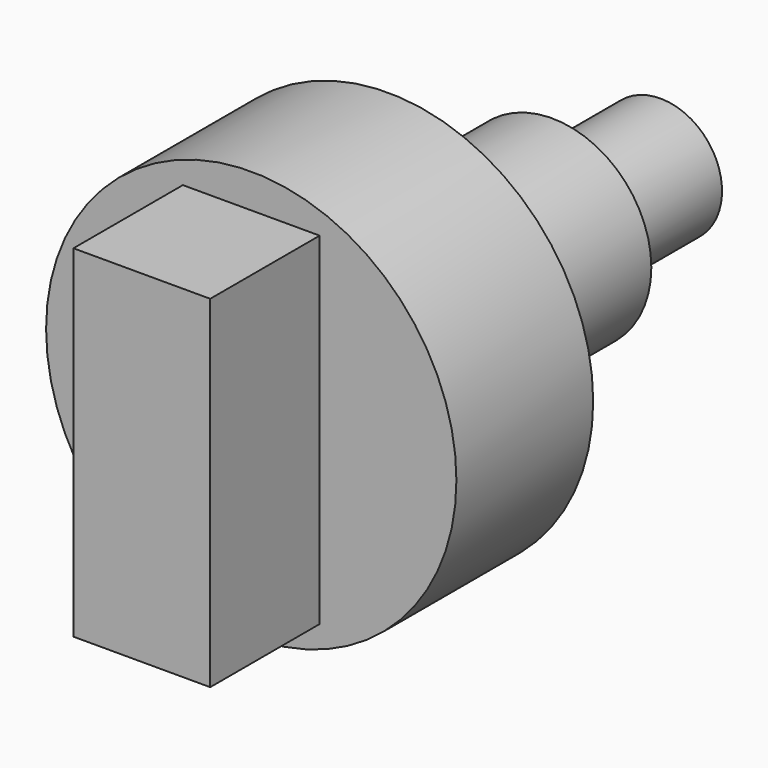
from build123d import *

# Parameters (mm, degrees)
F0_R     = 1.45
F1_DEPTH = 3
F2_R     = 3
F3_DEPTH = 2.5
F4_R     = 0.9
F5_DEPTH = 1.98
F6_W     = 2
F6_H     = 5
F7_DEPTH = 2


with BuildPart() as f1:
    # F0 (on Front) → F1 (new body)
    with BuildSketch(Plane.XZ):
        Circle(F0_R)
    extrude(amount=F1_DEPTH)

    # F2 (on face) → F3 (join)
    with BuildSketch(Plane.XZ.offset(3)):
        Circle(F2_R)
    extrude(amount=F3_DEPTH)

    # F4 (on face) → F5 (join)
    with BuildSketch(Plane(origin=(0, 0, 0), x_dir=(-1, 0, 0), z_dir=(0, 1, 0))):
        Circle(F4_R)
    extrude(amount=F5_DEPTH)

    # F6 (on face) → F7 (join)
    with BuildSketch(Plane.XZ.offset(5.5)):
        Rectangle(F6_W, F6_H)
    extrude(amount=F7_DEPTH)


solid = f1.part
